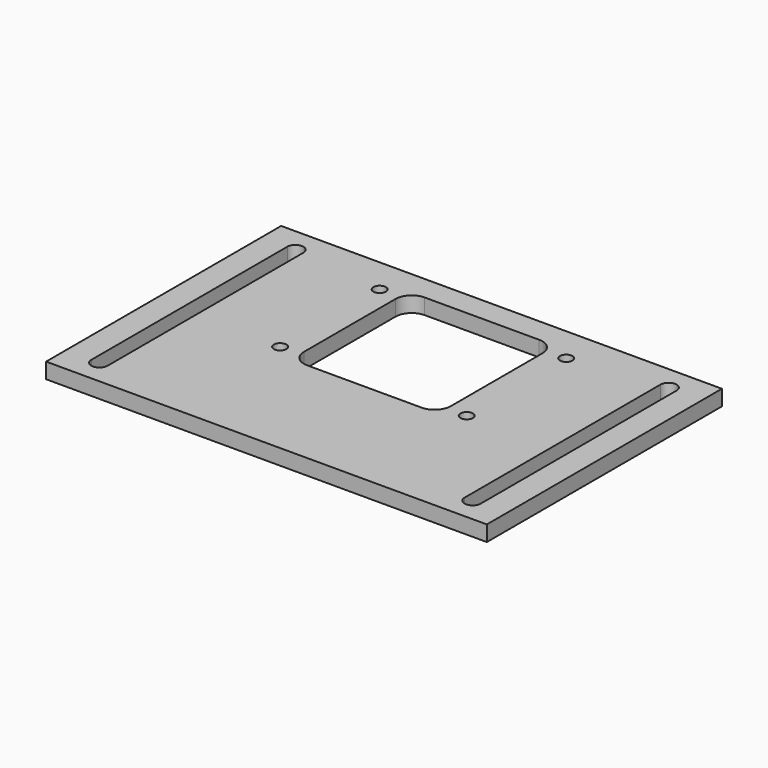
from build123d import *

# Parameters (mm, degrees)
F0_W     = 180
F0_H     = 120
F1_DEPTH = 6.35
F3_DEPTH = 6.351
F4_W     = 30
F4_H     = 20
F5_DEPTH = 6.351
F7_D     = 5.1054


with BuildPart() as f1:
    # F0 (on Top) → F1 (new body)
    with BuildSketch(Plane.XY):
        with Locations((90, 60)):
            Rectangle(F0_W, F0_H)
    extrude(amount=F1_DEPTH)

    # F2 (on face) → F3 (cut, through all)
    with BuildSketch(Plane.XY.offset(6.35)):
        with BuildLine():
            Line((10.498, 110), (10.498, 60))
            Line((10.498, 60), (13.8, 60))
            Line((13.8, 60), (17.102, 60))
            Line((17.102, 60), (17.102, 110))
            ThreePointArc((17.102, 110), (13.8, 113.302), (10.498, 110))
        make_face()
        with BuildLine():
            Line((162.898, 110), (162.898, 60))
            Line((162.898, 60), (166.2, 60))
            Line((166.2, 60), (169.502, 60))
            Line((169.502, 60), (169.502, 110))
            ThreePointArc((169.502, 110), (166.2, 113.302), (162.898, 110))
        make_face()
        with BuildLine():
            Line((166.2, 60), (162.898, 60))
            Line((162.898, 60), (162.898, 10))
            ThreePointArc((162.898, 10), (166.2, 6.698), (169.502, 10))
            Line((169.502, 10), (169.502, 60))
            Line((169.502, 60), (166.2, 60))
        make_face()
        with BuildLine():
            Line((13.8, 60), (10.498, 60))
            Line((10.498, 60), (10.498, 10))
            ThreePointArc((10.498, 10), (13.8, 6.698), (17.102, 10))
            Line((17.102, 10), (17.102, 60))
            Line((17.102, 60), (13.8, 60))
        make_face()
    extrude(amount=-F3_DEPTH, mode=Mode.SUBTRACT)

    # F4 (on face) → F5 (cut, through all)
    with BuildSketch(Plane.XY.offset(6.35)):
        with BuildLine():
            Line((113.396, 110), (90, 110))
            Line((90, 110), (90, 80))
            Line((90, 80), (120, 80))
            Line((120, 80), (120, 103.396))
            ThreePointArc((120, 103.396), (118.065733183, 108.065733183), (113.396, 110))
        make_face()
        with BuildLine():
            Line((90, 80), (90, 110))
            Line((90, 110), (66.604, 110))
            ThreePointArc((66.604, 110), (61.934266817, 108.065733183), (60, 103.396))
            Line((60, 103.396), (60, 80))
            Line((60, 80), (90, 80))
        make_face()
        with Locations((105, 70)):
            Rectangle(F4_W, F4_H)
        with Locations((75, 70)):
            Rectangle(F4_W, F4_H)
        with BuildLine():
            Line((120, 60), (90, 60))
            Line((90, 60), (90, 50))
            Line((90, 50), (113.396, 50))
            ThreePointArc((113.396, 50), (118.065733183, 51.934266817), (120, 56.604))
            Line((120, 56.604), (120, 60))
        make_face()
        with BuildLine():
            Line((90, 50), (90, 60))
            Line((90, 60), (60, 60))
            Line((60, 60), (60, 56.604))
            ThreePointArc((60, 56.604), (61.934266817, 51.934266817), (66.604, 50))
            Line((66.604, 50), (90, 50))
        make_face()
    extrude(amount=-F5_DEPTH, mode=Mode.SUBTRACT)

    # F7 (through all)
    with Locations(Plane.XY.offset(6.35)):
        with Locations((51.9, 105.4), (128.1, 105.4), (128.1, 54.6), (51.9, 54.6)):
            Hole(F7_D / 2)


solid = f1.part
